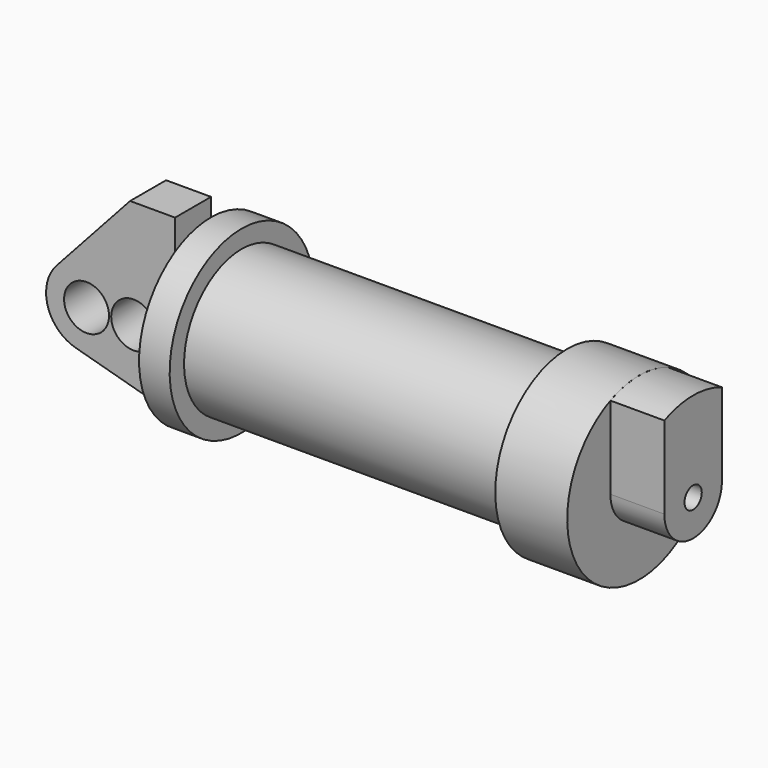
from build123d import *

# Parameters (mm, degrees)
F0_R     = 3.175
F0_W     = 5.842
F0_H     = 12.7
F2_DEPTH = 6.35
F3_R     = 1.524
F4_DEPTH = 7.62
F5_D     = 6.35


with BuildPart() as f1:
    # F0 (on Front) → F1 (revolve)
    with BuildSketch(Plane.XZ):
        Polygon((5.842, 12.7), (5.842, 0), (66.294, 0), (66.294, 12.7), (56.134, 12.7), (56.134, 10.16), (10.16, 10.16), (10.16, 12.7), align=None)
    revolve(axis=Axis((33.147, 0, 0), (-1, 0, 0)))

    # F0 (on Front) → F2 (join)
    with BuildSketch(Plane.XZ):
        with BuildLine():
            Line((-0.9398, 0), (0, 0))
            Line((0, 0), (0, 12.7))
            Line((0, 12.7), (5.842, 12.7))
            Line((5.842, 12.7), (5.842, 15.24))
            Line((5.842, 15.24), (-0.508, 15.24))
            Line((-0.508, 15.24), (-10.8806298187, 3.8475430269))
            ThreePointArc((-10.8806298187, 3.8475430269), (-4.5919612295, 5.3297205562), (-0.9398, 0))
        make_face()
        with BuildLine():
            Line((5.842, 0), (0, 0))
            Line((0, 0), (-0.9398, 0))
            ThreePointArc((-0.9398, 0), (-3.1957909266, -4.5493385486), (-8.1826630726, -5.5069827884))
            Line((-8.1826630726, -5.5069827884), (5.842, -9.398))
            Line((5.842, -9.398), (5.842, 0))
        make_face()
        with BuildLine():
            ThreePointArc((-8.1826630726, -5.5069827884), (-3.1957909266, -4.5493385486), (-0.9398, 0))
            ThreePointArc((-0.9398, 0), (-4.5919612295, 5.3297205562), (-10.8806298187, 3.8475430269))
            ThreePointArc((-10.8806298187, 3.8475430269), (-12.1459778134, -1.5837270034), (-8.1826630726, -5.5069827884))
        make_face()
        with Locations((-6.6548, 0)):
            Circle(F0_R, mode=Mode.SUBTRACT)
        with Locations((2.921, 6.35)):
            Rectangle(F0_W, F0_H)
    extrude(amount=F2_DEPTH)

    # F5 (through all)
    with Locations(Plane(origin=(0, 0, 0), x_dir=(1, 0, 0), z_dir=(0, 1, 0))):
        with Locations((0, 0)):
            Hole(F5_D / 2)


with BuildPart() as f4:
    # F3 (on face) → F4 (new body)
    with BuildSketch(Plane.YZ.offset(66.294)):
        with BuildLine():
            ThreePointArc((-5.08, 0), (0, -5.08), (5.08, 0))
            ThreePointArc((5.08, 0), (0, 5.08), (-5.08, 0))
        make_face()
        Circle(F3_R, mode=Mode.SUBTRACT)
        with BuildLine():
            ThreePointArc((-5.08, 0), (0, 5.08), (5.08, 0))
            Line((5.08, 0), (5.08, 11.6397422652))
            ThreePointArc((5.08, 11.6397422652), (0, 12.7), (-5.08, 11.6397422652))
            Line((-5.08, 11.6397422652), (-5.08, 0))
        make_face()
    extrude(amount=F4_DEPTH)


solid = Compound([f1.part, f4.part])
